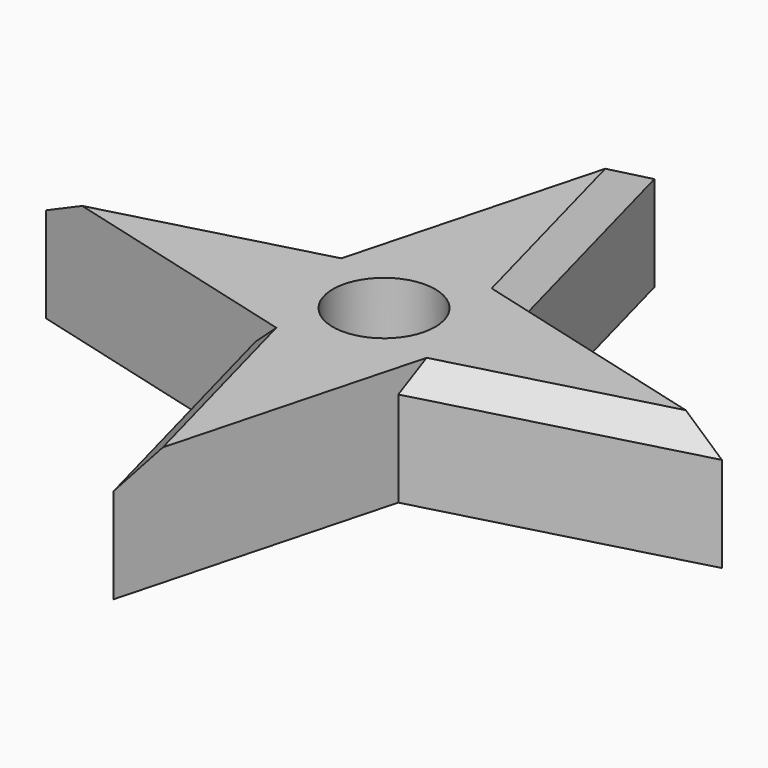
from build123d import *

# Parameters (mm, degrees)
F0_W     = 12
F0_H     = 12
F0_R     = 4.3
F1_DEPTH = 10
F2_SIZE  = 2


with BuildPart() as f1:
    # F0 (on Top) → F1 (new body)
    with BuildSketch(Plane.XY):
        Polygon((0, -28.392305), (6, -6), (-6, -6), align=None)
        Polygon((6, 6), (6, -6), (28.392305, 0), align=None)
        Rectangle(F0_W, F0_H)
        Circle(F0_R, mode=Mode.SUBTRACT)
        Polygon((-6, 6), (6, 6), (0, 28.392305), align=None)
        Polygon((-28.392305, 0), (-6, -6), (-6, 6), align=None)
    extrude(amount=F1_DEPTH)

    # F2
    f2_edges = [f1.edges().sort_by_distance(p)[0] for p in [
        (-3, -17.196152, 10),
        (-17.196152, 3, 10),
        (3, 17.196152, 10),
        (17.196152, -3, 10),
    ]]
    chamfer(f2_edges, length=F2_SIZE)


solid = f1.part
